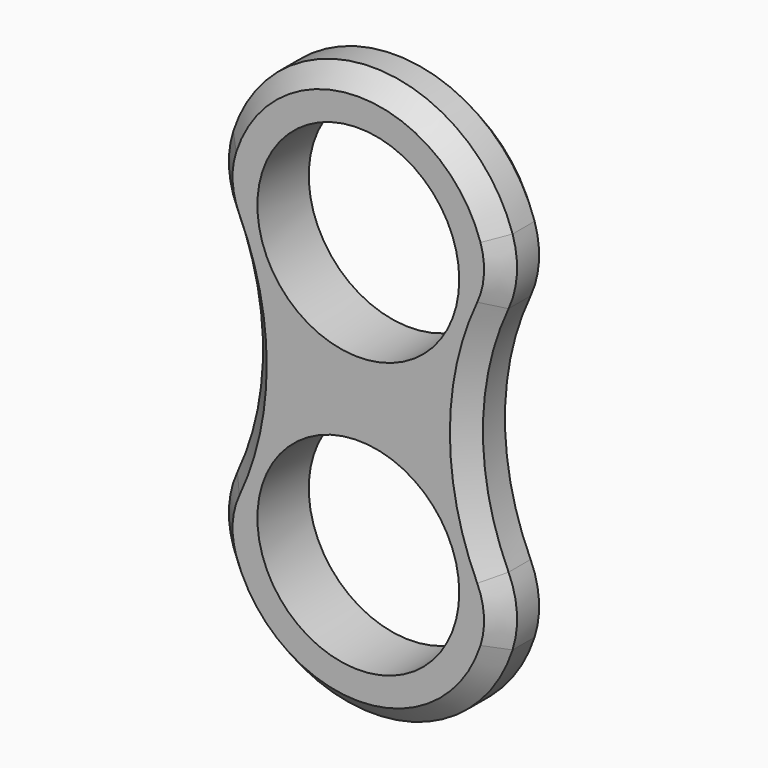
from build123d import *

# Parameters (mm, degrees)
F0_R     = 11
F1_DEPTH = 7
F2_SIZE  = 2


with BuildPart() as f1:
    # F0 (on Front) → F1 (new body)
    with BuildSketch(Plane.XZ):
        with BuildLine():
            ThreePointArc((14.774496, 27.641957), (15.687594, 31.253782), (15.215308, 34.949181))
            ThreePointArc((15.215308, 34.949181), (0, 46), (-15.215308, 34.949181))
            ThreePointArc((-15.215308, 34.949181), (-15.687594, 31.253782), (-14.774496, 27.641957))
            ThreePointArc((-14.774496, 27.641957), (-11.980762, 15), (-14.774496, 2.358043))
            ThreePointArc((-14.774496, 2.358043), (-15.687594, -1.253782), (-15.215308, -4.949181))
            ThreePointArc((-15.215308, -4.949181), (0, -16), (15.215308, -4.949181))
            ThreePointArc((15.215308, -4.949181), (15.687594, -1.253782), (14.774496, 2.358043))
            ThreePointArc((14.774496, 2.358043), (11.980762, 15), (14.774496, 27.641957))
        make_face()
        Circle(F0_R, mode=Mode.SUBTRACT)
        with Locations((0, 30)):
            Circle(F0_R, mode=Mode.SUBTRACT)
    extrude(amount=F1_DEPTH)

    # F2
    f2_edges = [f1.edges().sort_by_distance(p)[0] for p in [
        (0, -7, 46),
        (0, 0, 46),
    ]]
    chamfer(f2_edges, length=F2_SIZE)


solid = f1.part
